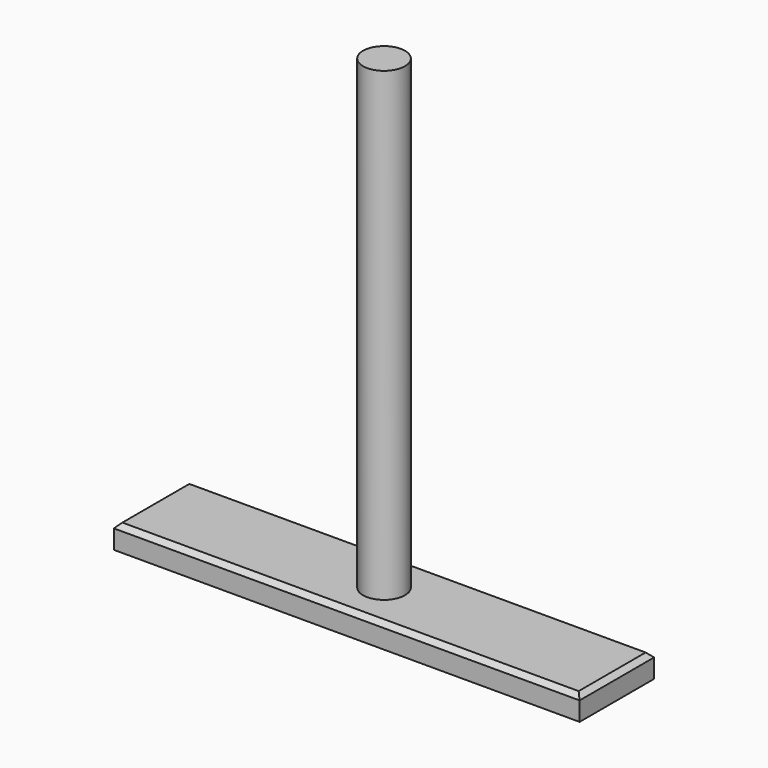
from build123d import *

# Parameters (mm, degrees)
F0_R     = 22.5
F1_DEPTH = 500
F2_W     = 500
F2_H     = 100
F3_DEPTH = 25.4
F4_SIZE  = 5.08


with BuildPart() as f1:
    # F0 (on Top) → F1 (new body)
    with BuildSketch(Plane.XY):
        with Locations((-2.513092, 12.474374)):
            Circle(F0_R)
    extrude(amount=F1_DEPTH)

    # F2 (on face) → F3 (join)
    with BuildSketch(Plane(origin=(0, 0, 0), x_dir=(1, 0, 0), z_dir=(0, 0, -1))):
        with Locations((-2.513092, -12.474374)):
            Rectangle(F2_W, F2_H)
    extrude(amount=F3_DEPTH)

    # F4
    f4_edges = [f1.edges().sort_by_distance(p)[0] for p in [
        (-2.513092, -37.525626, 0),
        (-252.513092, 12.474374, 0),
        (-2.513092, 62.474374, 0),
        (247.486908, 12.474374, 0),
    ]]
    chamfer(f4_edges, length=F4_SIZE)


solid = f1.part
